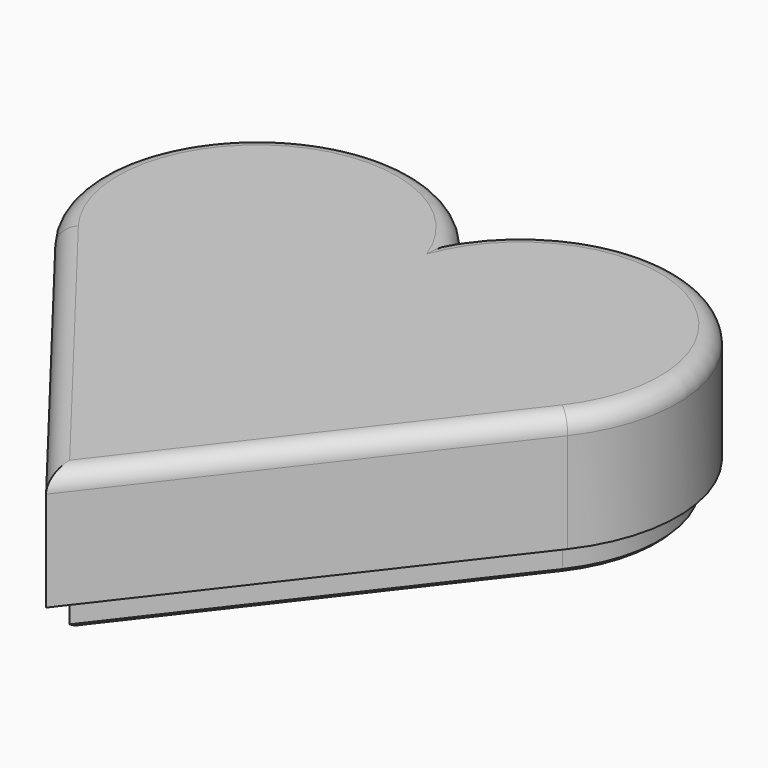
from build123d import *

# Parameters (mm, degrees)
F1_DEPTH = 16.6271422058
F2_R     = 2.54
F3_DEPTH = 20.8997240989
F4_SIZE2 = 0.508
F4_SIZE  = 0.508


with BuildPart() as f1:
    # F0 (on Top) → F1 (new body)
    with BuildSketch(Plane.XY):
        with BuildLine():
            Line((-36.148622632, 0), (0, -46.8087121844))
            Line((0, -46.8087121844), (36.148622632, 0))
            ThreePointArc((36.148622632, 0), (31.497984523, 31.6851542178), (0, 25.9011760354))
            ThreePointArc((0, 25.9011760354), (-31.497984523, 31.6851542178), (-36.148622632, 0))
        make_face()
    extrude(amount=F1_DEPTH)

    # F2
    f2_edges = [f1.edges().sort_by_distance(p)[0] for p in [
        (-31.497985, 31.685154, 16.627142),
        (-18.074311, -23.404356, 16.627142),
        (18.074311, -23.404356, 16.627142),
        (31.497985, 31.685154, 16.627142),
    ]]
    fillet(f2_edges, radius=F2_R)

    # F3 (add): a face of the model
    f3_faces = [f1.faces().sort_by_distance(p)[0] for p in [
        (0, 3.7630845429, 16.6271422058),
    ]]
    extrude(f3_faces, amount=-F3_DEPTH)

    # F4
    f4_edges = [f1.edges().sort_by_distance(p)[0] for p in [
        (-28.022292, 30.877177, -4.272582),
        (28.022292, 30.877177, -4.272582),
        (-17.069153, -20.550289, -4.272582),
        (17.069153, -20.550289, -4.272582),
    ]]
    chamfer(f4_edges, length=F4_SIZE, length2=F4_SIZE2)


solid = f1.part
